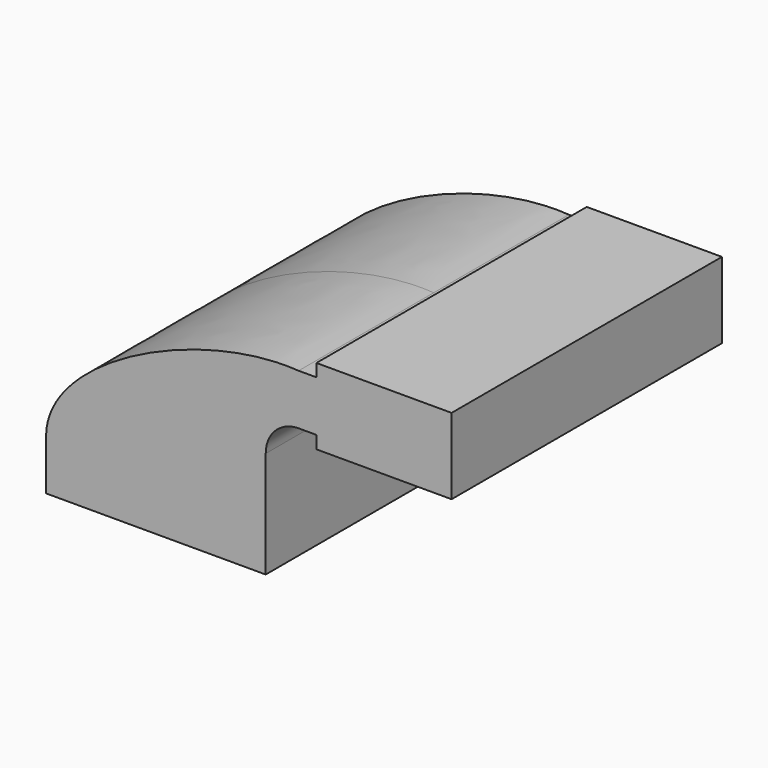
from build123d import *

# Parameters (mm, degrees)
F0_W     = 25.4
F0_H     = 28.575
F1_DEPTH = 63.5


with BuildPart() as f1:
    # F0 (on Front) → F1 (new body, symmetric)
    with BuildSketch(Plane.XZ):
        with BuildLine():
            add(Edge.make_bspline(
                [(-41.275, 9.525), (-41.089289, 37.270412), (16.726991, 64.451575), (53.630861, 61.9252)],
                knots=[0, 0, 0, 0, 108.410809, 108.410809, 108.410809, 108.410809], degree=3))
            Line((-41.275, 9.525), (22.225, 9.525))
            Line((22.225, 9.525), (22.225, 30.519339))
            ThreePointArc((22.225, 30.519339), (31.423564, 52.726636), (53.630861, 61.9252))
        make_face()
        Polygon((22.225, 9.525), (-41.275, 9.525), (-41.275, -9.525), (41.275, -9.525), (41.275, 9.525), align=None)
        with BuildLine():
            Line((22.225, 30.519339), (22.225, 9.525))
            Line((22.225, 9.525), (41.275, 9.525))
            Line((41.275, 9.525), (41.275, 30.519339))
            ThreePointArc((41.275, 30.519339), (44.893948, 39.256252), (53.630861, 42.8752))
            Line((53.630861, 42.8752), (60.325, 42.8752))
            Line((60.325, 42.8752), (60.325, 61.9252))
            Line((60.325, 61.9252), (53.630861, 61.9252))
            ThreePointArc((53.630861, 61.9252), (31.423564, 52.726636), (22.225, 30.519339))
        make_face()
        Polygon((60.325, 66.675), (60.325, 61.9252), (60.325, 42.8752), (60.325, 38.1), (85.725, 38.1), (85.725, 66.675), align=None)
        with Locations((98.425, 52.3875)):
            Rectangle(F0_W, F0_H)
    extrude(amount=F1_DEPTH, both=True)


solid = f1.part
